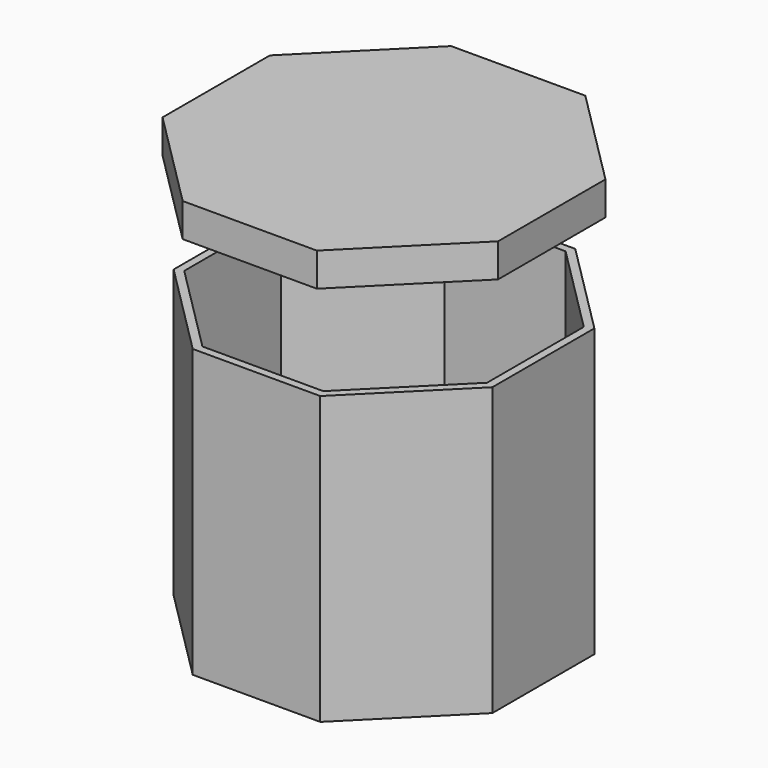
from build123d import *

# Parameters (mm, degrees)
F0_W     = 100
F0_H     = 100
F1_DEPTH = 90
F2_SIZE  = 30
F3_T     = -2.5
F5_W     = 100
F5_H     = 100
F6_DEPTH = 10
F7_SIZE  = 30
F8_T     = -2.5
F9_SCALE = 1.052632


with BuildPart() as f1:
    # F0 (on Top) → F1 (new body)
    with BuildSketch(Plane.XY):
        Rectangle(F0_W, F0_H)
    extrude(amount=F1_DEPTH)

    # F2
    f2_edges = [f1.edges().sort_by_distance(p)[0] for p in [
        (-50, 50, 45),
        (50, 50, 45),
        (50, -50, 45),
        (-50, -50, 45),
    ]]
    chamfer(f2_edges, length=F2_SIZE)

    # F3
    f3_openings = [f1.faces().sort_by_distance(p)[0] for p in [
        (0, 0, 90),
    ]]
    offset(amount=F3_T, openings=f3_openings)


with BuildPart() as f6:
    # F5 (on offset) → F6 (new body)
    with BuildSketch(Plane.XY.offset(115)):
        Rectangle(F5_W, F5_H)
    extrude(amount=F6_DEPTH)

    # F7
    f7_edges = [f6.edges().sort_by_distance(p)[0] for p in [
        (-50, -50, 120),
        (-50, 50, 120),
        (50, 50, 120),
        (50, -50, 120),
    ]]
    chamfer(f7_edges, length=F7_SIZE)

    # F8
    f8_openings = [f6.faces().sort_by_distance(p)[0] for p in [
        (0, 0, 115),
    ]]
    offset(amount=F8_T, openings=f8_openings)


with BuildPart() as f6_1:
    # F9: moved
    add(f6.part.scale(F9_SCALE))


solid = Compound([f1.part, f6_1.part])
